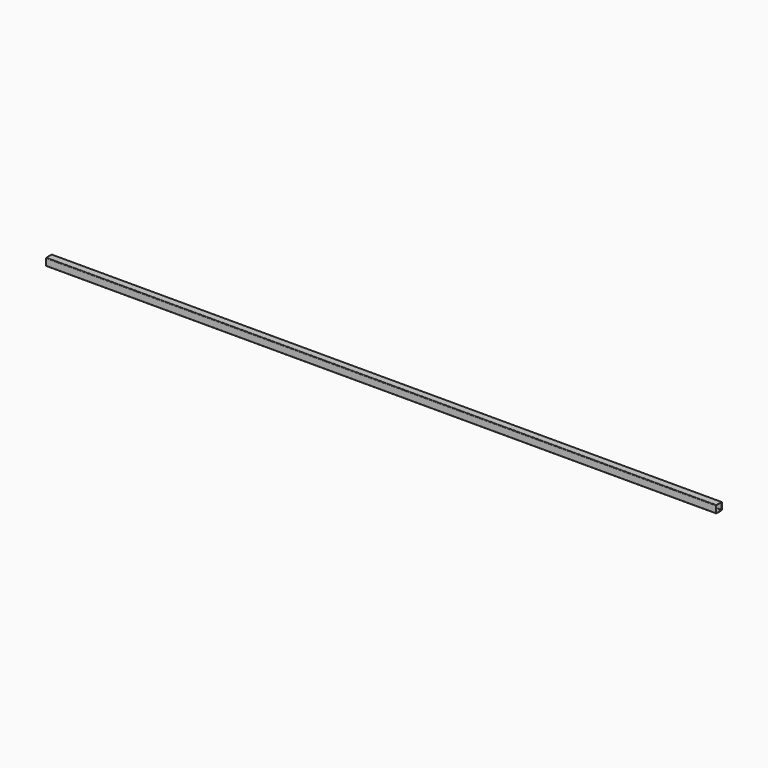
from build123d import *

# Parameters (mm, degrees)
F1_DEPTH = 1125


with BuildPart() as f1:
    # F0 (on Right) → F1 (new body, symmetric)
    with BuildSketch(Plane.YZ):
        with BuildLine():
            ThreePointArc((12.5, 10.5), (11.914214, 11.914214), (10.5, 12.5))
            Line((10.5, 12.5), (-10.5, 12.5))
            ThreePointArc((-10.5, 12.5), (-11.914214, 11.914214), (-12.5, 10.5))
            Line((-12.5, 10.5), (-12.5, -10.5))
            ThreePointArc((-12.5, -10.5), (-11.914214, -11.914214), (-10.5, -12.5))
            Line((-10.5, -12.5), (10.5, -12.5))
            ThreePointArc((10.5, -12.5), (11.914214, -11.914214), (12.5, -10.5))
            Line((12.5, -10.5), (12.5, 10.5))
        make_face()
        with BuildLine():
            Line((-9.5, 11.5), (9.5, 11.5))
            ThreePointArc((9.5, 11.5), (10.914214, 10.914214), (11.5, 9.5))
            Line((11.5, 9.5), (11.5, -9.5))
            ThreePointArc((11.5, -9.5), (10.914214, -10.914214), (9.5, -11.5))
            Line((9.5, -11.5), (-9.5, -11.5))
            ThreePointArc((-9.5, -11.5), (-10.914214, -10.914214), (-11.5, -9.5))
            Line((-11.5, -9.5), (-11.5, 9.5))
            ThreePointArc((-11.5, 9.5), (-10.914214, 10.914214), (-9.5, 11.5))
        make_face(mode=Mode.SUBTRACT)
    extrude(amount=F1_DEPTH, both=True)


solid = f1.part
